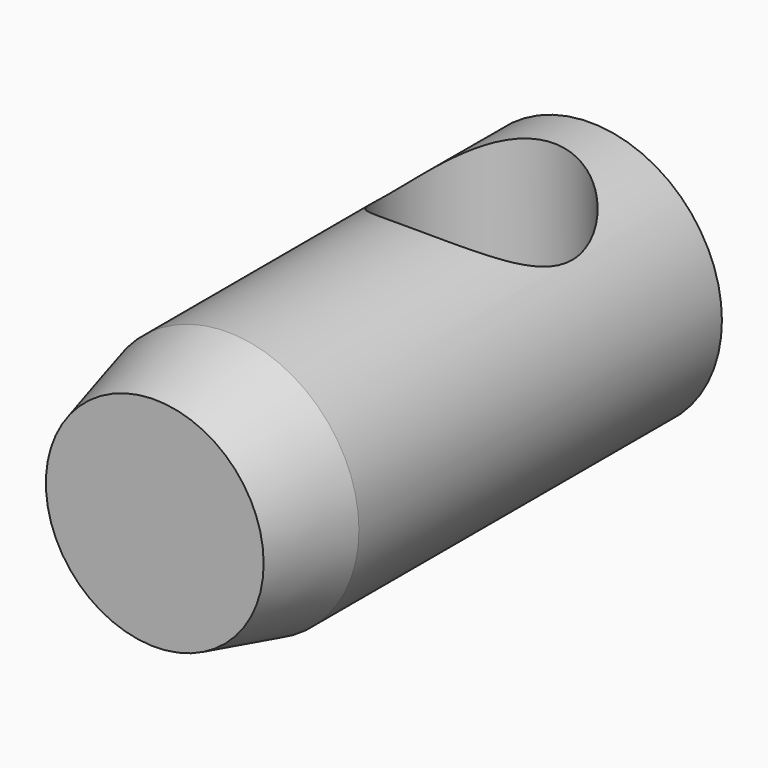
from build123d import *

# Parameters (mm, degrees)
F0_R     = 2.9
F1_DEPTH = 6
F2_R     = 2
F3_DEPTH = 2.9
F4_SIZE2 = 2
F4_SIZE  = 0.5


with BuildPart() as f1:
    # F0 (on Front) → F1 (new body, symmetric)
    with BuildSketch(Plane.XZ):
        Circle(F0_R)
    extrude(amount=F1_DEPTH, both=True)

    # F2 (on Top) → F3 (cut, through all)
    with BuildSketch(Plane.XY):
        with Locations((0, 3)):
            Circle(F2_R)
    extrude(amount=F3_DEPTH, mode=Mode.SUBTRACT)

    # F4
    f4_edges = [f1.edges().sort_by_distance(p)[0] for p in [
        (-2.9, -6, 0),
    ]]
    f4_side = f1.faces().sort_by_distance((0, -6, 0))[0]
    chamfer(f4_edges, length=F4_SIZE, length2=F4_SIZE2, reference=f4_side)


solid = f1.part
